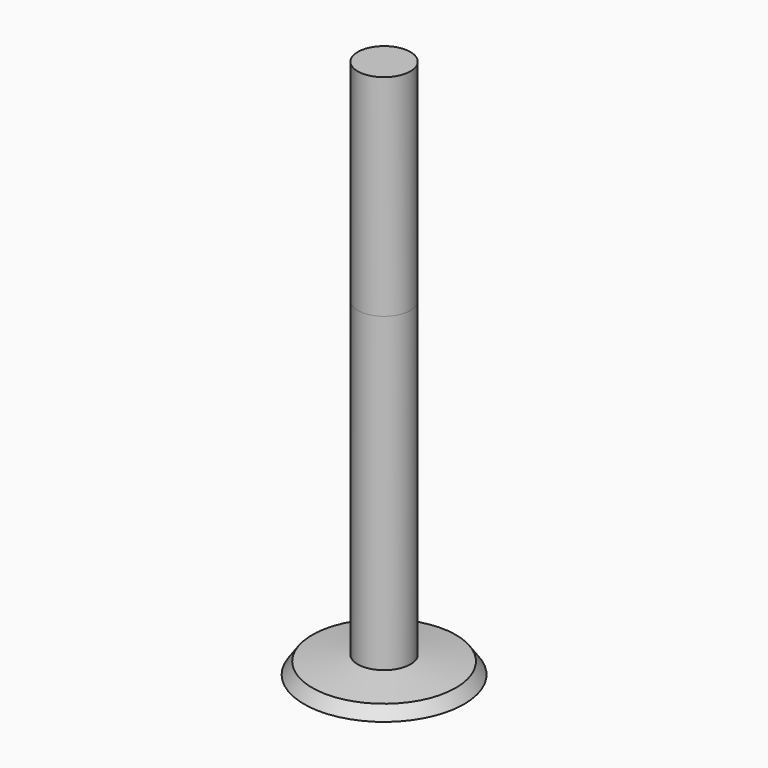
from build123d import *

# Parameters (mm, degrees)
F3_DEPTH = 38.1


with BuildPart() as f2:
    # F1 (on Front) → F2 (revolve)
    with BuildSketch(Plane.XZ):
        Polygon((0, 59.5603585243), (0, 0), (4.7625, 0), (14.4842928275, 0), (12.9903322086, 2.1136167925), (4.7625, 3.1850256491), (4.7625, 59.5603585243), align=None)
    revolve(axis=Axis((0, 0, 0), (0, 0, 1)))

    # F3 (add): a face of the model
    f3_faces = [f2.faces().sort_by_distance(p)[0] for p in [
        (0, 0, 59.5603585243),
    ]]
    extrude(f3_faces, amount=F3_DEPTH)


solid = f2.part
